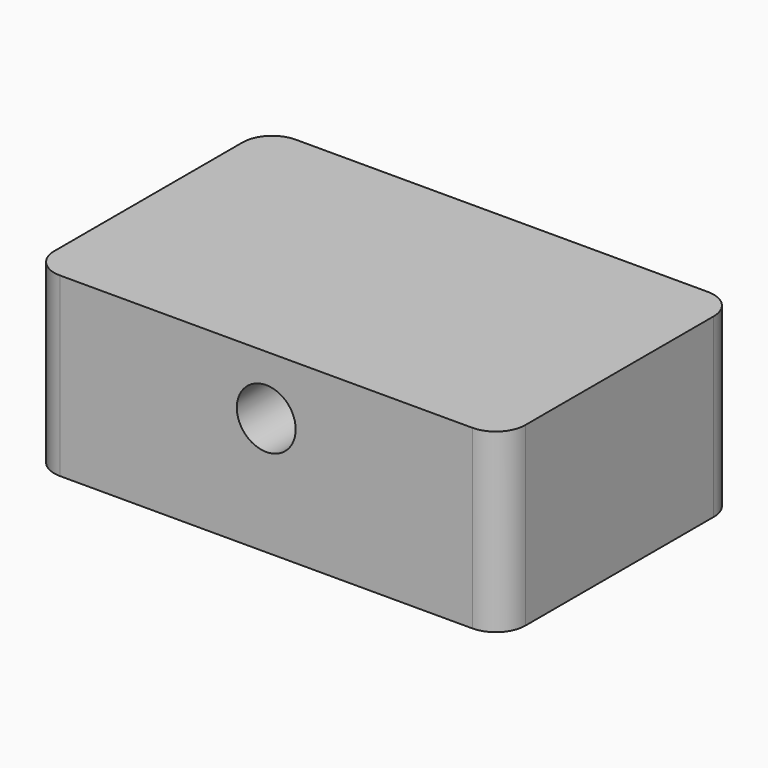
from build123d import *

# Parameters (mm, degrees)
F1_DEPTH = 38.1
F2_R     = 6.35
F3_DEPTH = 63.501


with BuildPart() as f1:
    # F0 (on Top) → F1 (new body)
    with BuildSketch(Plane.XY):
        with BuildLine():
            ThreePointArc((0, 6.35), (1.859872, 1.859872), (6.35, 0))
            Line((6.35, 0), (95.25, 0))
            ThreePointArc((95.25, 0), (99.740128, 1.859872), (101.6, 6.35))
            Line((101.6, 6.35), (101.6, 57.15))
            ThreePointArc((101.6, 57.15), (99.740128, 61.640128), (95.25, 63.5))
            Line((95.25, 63.5), (6.35, 63.5))
            ThreePointArc((6.35, 63.5), (1.859872, 61.640128), (0, 57.15))
            Line((0, 57.15), (0, 6.35))
        make_face()
    extrude(amount=F1_DEPTH)

    # F2 (on face) → F3 (cut, through all)
    with BuildSketch(Plane.XZ):
        with Locations((50.8, 25.4)):
            Circle(F2_R)
    extrude(amount=-F3_DEPTH, mode=Mode.SUBTRACT)


solid = f1.part
